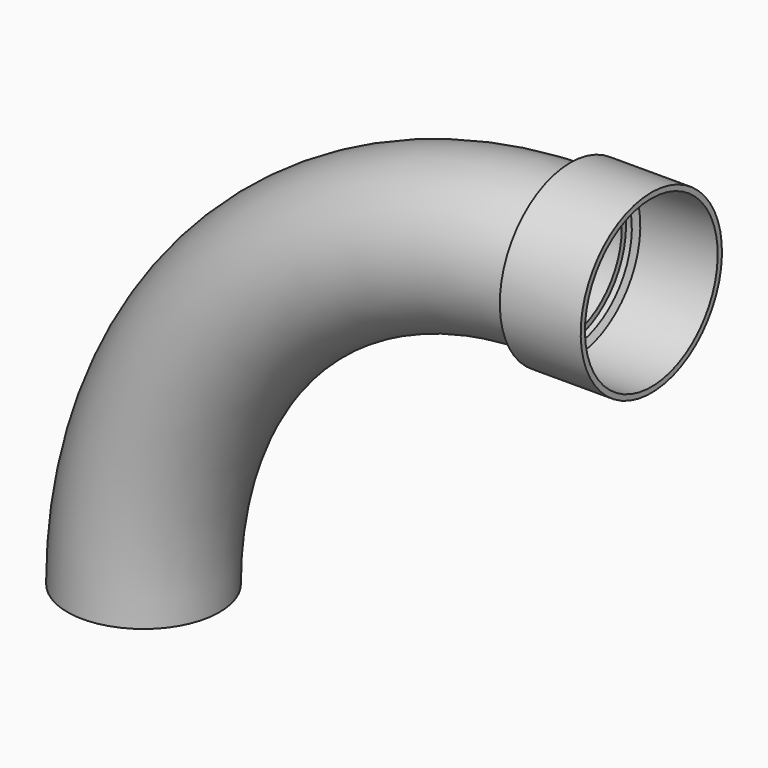
from build123d import *

# Parameters (mm, degrees)
F1_R   = 101.6
F1_R_2 = 94.488


with BuildPart() as f2:
    # F0 (on Front) → F2 (revolve)
    with BuildSketch(Plane.XZ):
        Polygon((7.112, 117.856), (0, 101.6), (7.762859, 101.6), (11.763359, 110.744), (115.062, 110.744), (115.062, 117.856), align=None)
    revolve(axis=Axis((57.531, 0, 0), (1, 0, 0)))

    # F4: sweep along a path in F3
    with BuildLine(Plane.XZ) as f4_path:
        ThreePointArc((0, 0), (-397.96005, -164.84045), (-562.8005, -562.8005))
    # F1 (on Right) → F4 (sweep)
    with BuildSketch(Plane.YZ):
        Circle(F1_R)
        Circle(F1_R_2, mode=Mode.SUBTRACT)
    sweep(path=f4_path.line)


solid = f2.part
